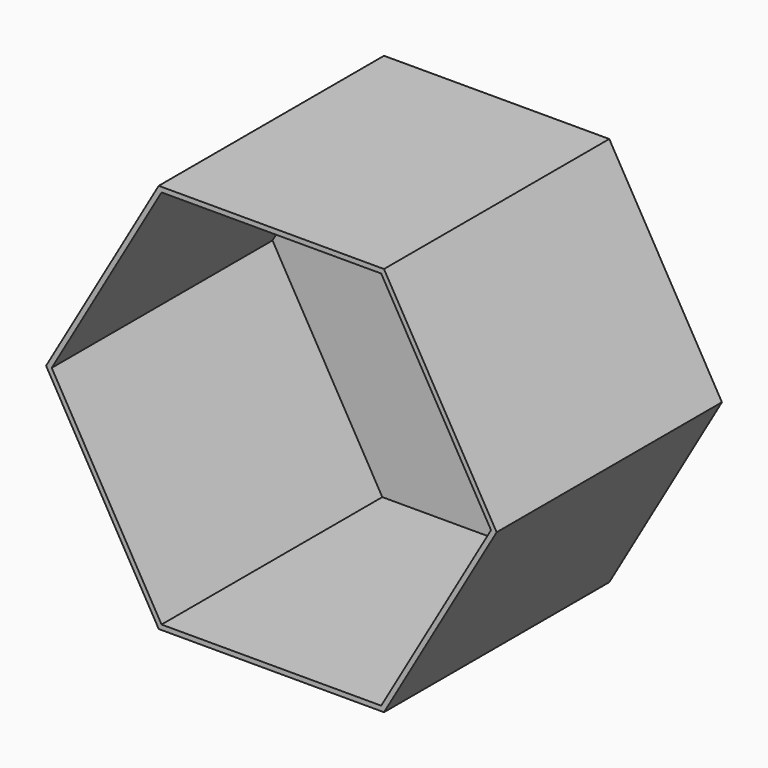
from build123d import *

# Parameters (mm, degrees)
F1_DEPTH = 50
F3_DEPTH = 49


with BuildPart() as f1:
    # F0 (on Front) → F1 (new body)
    with BuildSketch(Plane.XZ):
        Polygon((40, 0), (20, 34.641016), (-20, 34.641016), (-40, 0), (-20, -34.641016), (20, -34.641016), align=None)
    extrude(amount=F1_DEPTH)

    # F2 (on face) → F3 (cut)
    with BuildSketch(Plane.XZ.offset(50)):
        Polygon((19.5, -33.774991), (39, 0), (19.5, 33.774991), (-19.5, 33.774991), (-39, 0), (-19.5, -33.774991), align=None)
    extrude(amount=-F3_DEPTH, mode=Mode.SUBTRACT)


solid = f1.part
